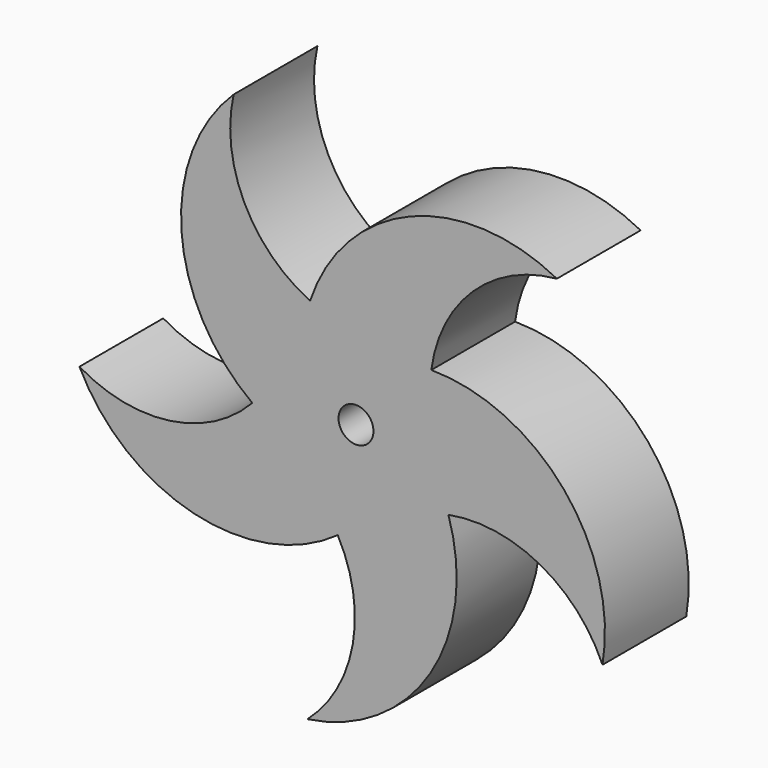
from build123d import *

# Parameters (mm, degrees)
F0_R     = 3.175
F1_DEPTH = 19.05


with BuildPart() as f1:
    # F0 (on Front) → F1 (new body)
    with BuildSketch(Plane.XZ):
        with BuildLine():
            ThreePointArc((16.817638, -8.948159), (33.449676, -11.485793), (44.847035, -23.861757))
            ThreePointArc((44.847035, -23.861757), (37.866095, 1.894723), (13.707141, 13.229391))
            ThreePointArc((13.707141, 13.229391), (21.260157, 28.263227), (36.552375, 35.278377))
            ThreePointArc((36.552375, 35.278377), (9.899278, 36.598298), (-8.346159, 17.124372))
            ThreePointArc((-8.346159, 17.124372), (-20.310177, 28.953428), (-22.256425, 45.664993))
            ThreePointArc((-22.256425, 45.664993), (-31.748004, 20.724269), (-18.865351, -2.645947))
            ThreePointArc((-18.865351, -2.645947), (-33.812536, -10.369025), (-50.307602, -7.055859))
            ThreePointArc((-50.307602, -7.055859), (-29.520624, -23.789995), (-3.313269, -18.759658))
            ThreePointArc((-3.313269, -18.759658), (-0.58712, -35.361838), (-8.835383, -50.025753))
            ThreePointArc((-8.835383, -50.025753), (13.503255, -35.427295), (16.817638, -8.948159))
        make_face()
        Circle(F0_R, mode=Mode.SUBTRACT)
    extrude(amount=-F1_DEPTH)


solid = f1.part
